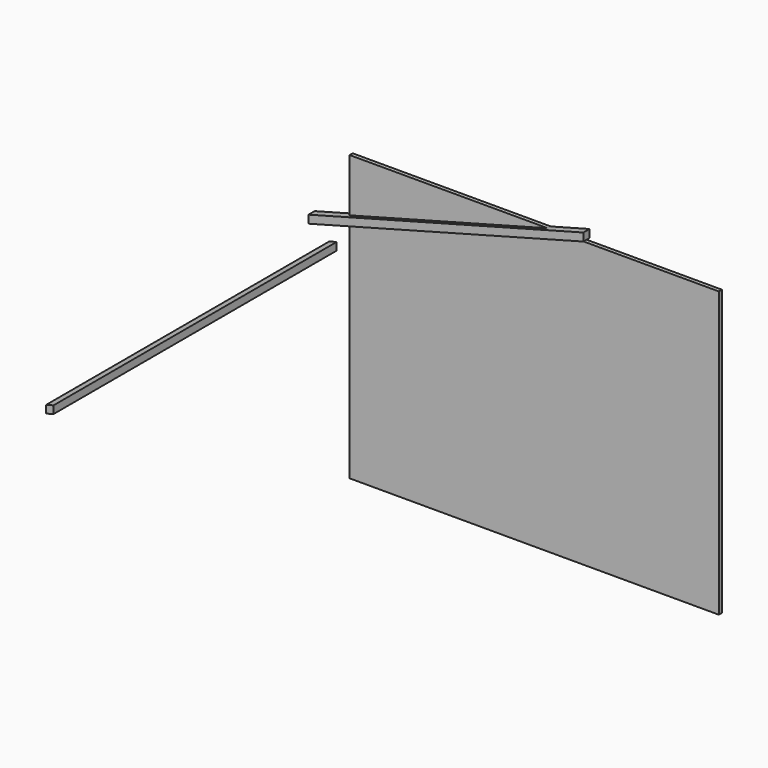
from build123d import *

# Parameters (mm, degrees)
F1_DEPTH = 12.7
F3_DEPTH = 584.2
F4_W     = 609.6
F4_H     = 469.9
F5_DEPTH = 6.35


with BuildPart() as f1:
    # F0 (on Front) → F1 (new body)
    with BuildSketch(Plane.XZ):
        Polygon((361.151774, 151.826409), (-92.736772, 30.20734), (-92.736772, 17.059332), (361.151774, 138.678402), align=None)
    extrude(amount=F1_DEPTH)


with BuildPart() as f3:
    # F2 (on Front) → F3 (new body)
    with BuildSketch(Plane.XZ):
        Polygon((-56.497282, -2.874773), (-68.76454, -6.161775), (-68.76454, -18.861775), (-56.497282, -15.574773), align=None)
    extrude(amount=F3_DEPTH)


with BuildPart() as f5:
    # F4 (on Front) → F5 (new body)
    with BuildSketch(Plane.XZ):
        with Locations((274.899643, -100.257091)):
            Rectangle(F4_W, F4_H)
    extrude(amount=F5_DEPTH)


solid = Compound([f1.part, f3.part, f5.part])
